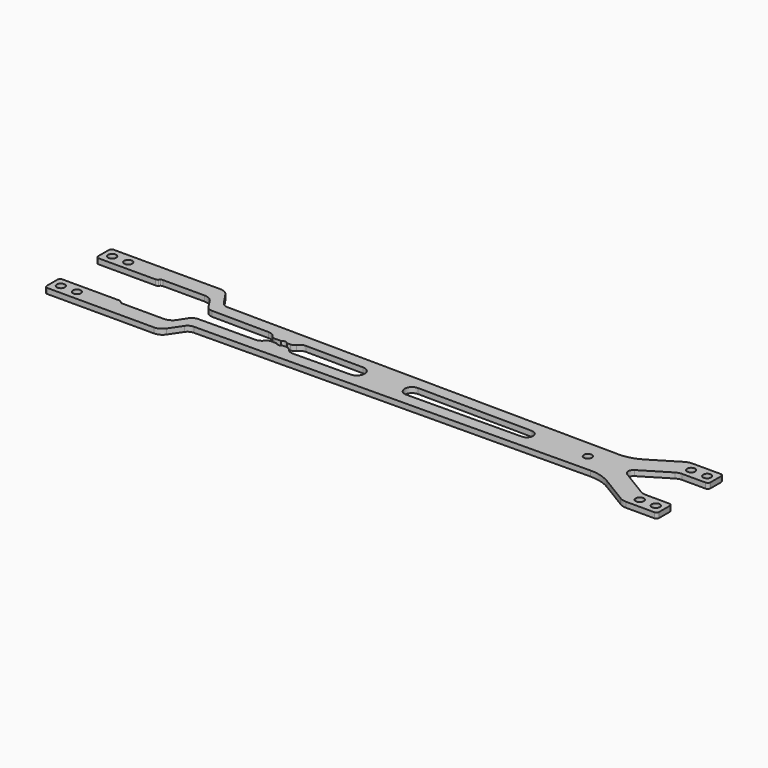
from build123d import *

# Parameters (mm, degrees)
F0_R     = 1.5
F1_DEPTH = 2


with BuildPart() as f1:
    # F0 (on Top) → F1 (new body)
    with BuildSketch(Plane.XY):
        with BuildLine():
            ThreePointArc((-19.697627, 1), (-18.579593, 1.5), (-17.461559, 1))
            Line((-17.461559, 1), (-16.105791, 1))
            ThreePointArc((-16.105791, 1), (-15.197296, 1.218249), (-14.487079, 1.825363))
            ThreePointArc((-14.487079, 1.825363), (-13.370764, 2.775222), (-11.943263, 3.107833))
            Line((-11.943263, 3.107833), (9.535083, 2.911781))
            ThreePointArc((9.535083, 2.911781), (12.420407, 0), (9.535083, -2.911781))
            Line((9.535083, -2.911781), (-11.943263, -3.107833))
            ThreePointArc((-11.943263, -3.107833), (-13.370764, -2.775222), (-14.487079, -1.825363))
            ThreePointArc((-14.487079, -1.825363), (-15.197296, -1.218249), (-16.105791, -1))
            Line((-16.105791, -1), (-17.461559, -1))
            ThreePointArc((-17.461559, -1), (-18.579593, -1.5), (-19.697627, -1))
            Line((-19.697627, -1), (-21.850744, -1))
            ThreePointArc((-21.850744, -1), (-22.759239, -1.218249), (-23.469456, -1.825363))
            ThreePointArc((-23.469456, -1.825363), (-24.560498, -2.762335), (-25.956535, -3.107833))
            Line((-25.956535, -3.107833), (-47.215056, -3.301877))
            ThreePointArc((-47.215056, -3.301877), (-48.633493, -3.67314), (-49.706572, -4.67229))
            Line((-49.706572, -4.67229), (-51.647468, -7.672617))
            ThreePointArc((-51.647468, -7.672617), (-53.094256, -9.013578), (-55.006, -9.5))
            Line((-55.006, -9.5), (-70.66538, -9.5))
            ThreePointArc((-70.66538, -9.5), (-71.048063, -9.42388), (-71.372486, -9.207107))
            Line((-71.372486, -9.207107), (-71.7867, -8.792893))
            ThreePointArc((-71.7867, -8.792893), (-72.111123, -8.57612), (-72.493807, -8.5))
            Line((-72.493807, -8.5), (-93.829593, -8.5))
            ThreePointArc((-93.829593, -8.5), (-94.5367, -8.792893), (-94.829593, -9.5))
            Line((-94.829593, -9.5), (-94.829593, -14.497718))
            ThreePointArc((-94.829593, -14.497718), (-94.5367, -15.204825), (-93.829593, -15.497718))
            Line((-93.829593, -15.497718), (-53.964611, -15.497718))
            ThreePointArc((-53.964611, -15.497718), (-52.081116, -15.02652), (-50.64137, -13.72394))
            Line((-50.64137, -13.72394), (-47.61983, -9.213471))
            ThreePointArc((-47.61983, -9.213471), (-46.552084, -8.243011), (-45.154781, -7.883263))
            Line((-45.154781, -7.883263), (102.117442, -6.538983))
            ThreePointArc((102.117442, -6.538983), (106.230219, -7.07487), (110.039026, -8.716546))
            Line((110.039026, -8.716546), (120.015907, -14.773938))
            ThreePointArc((120.015907, -14.773938), (121.26352, -15.315064), (122.610798, -15.5))
            Line((122.610798, -15.5), (133.170407, -15.5))
            ThreePointArc((133.170407, -15.5), (133.877514, -15.207107), (134.170407, -14.5))
            Line((134.170407, -14.5), (134.170407, -9.5))
            ThreePointArc((134.170407, -9.5), (133.877514, -8.792893), (133.170407, -8.5))
            Line((133.170407, -8.5), (124.289625, -8.5))
            ThreePointArc((124.289625, -8.5), (123.211804, -8.352051), (122.213713, -7.91915))
            Line((122.213713, -7.91915), (111.986177, -1.709575))
            ThreePointArc((111.986177, -1.709575), (111.024134, 0), (111.986177, 1.709575))
            Line((111.986177, 1.709575), (122.213713, 7.91915))
            ThreePointArc((122.213713, 7.91915), (123.211804, 8.352051), (124.289625, 8.5))
            Line((124.289625, 8.5), (133.170407, 8.5))
            ThreePointArc((133.170407, 8.5), (133.877514, 8.792893), (134.170407, 9.5))
            Line((134.170407, 9.5), (134.170407, 14.5))
            ThreePointArc((134.170407, 14.5), (133.877514, 15.207107), (133.170407, 15.5))
            Line((133.170407, 15.5), (122.610798, 15.5))
            ThreePointArc((122.610798, 15.5), (121.26352, 15.315064), (120.015907, 14.773938))
            Line((120.015907, 14.773938), (110.039026, 8.716546))
            ThreePointArc((110.039026, 8.716546), (106.230219, 7.07487), (102.117442, 6.538983))
            Line((102.117442, 6.538983), (-45.154781, 7.883263))
            ThreePointArc((-45.154781, 7.883263), (-46.552084, 8.243011), (-47.61983, 9.213471))
            Line((-47.61983, 9.213471), (-50.64137, 13.72394))
            ThreePointArc((-50.64137, 13.72394), (-52.081116, 15.02652), (-53.964611, 15.497718))
            Line((-53.964611, 15.497718), (-93.829593, 15.497718))
            ThreePointArc((-93.829593, 15.497718), (-94.5367, 15.204825), (-94.829593, 14.497718))
            Line((-94.829593, 14.497718), (-94.829593, 9.5))
            ThreePointArc((-94.829593, 9.5), (-94.5367, 8.792893), (-93.829593, 8.5))
            Line((-93.829593, 8.5), (-72.493807, 8.5))
            ThreePointArc((-72.493807, 8.5), (-72.111123, 8.57612), (-71.7867, 8.792893))
            Line((-71.7867, 8.792893), (-71.372486, 9.207107))
            ThreePointArc((-71.372486, 9.207107), (-71.048063, 9.42388), (-70.66538, 9.5))
            Line((-70.66538, 9.5), (-55.006, 9.5))
            ThreePointArc((-55.006, 9.5), (-53.094256, 9.013578), (-51.647468, 7.672617))
            Line((-51.647468, 7.672617), (-49.706572, 4.67229))
            ThreePointArc((-49.706572, 4.67229), (-48.633493, 3.67314), (-47.215056, 3.301877))
            Line((-47.215056, 3.301877), (-25.956535, 3.107833))
            ThreePointArc((-25.956535, 3.107833), (-24.560498, 2.762335), (-23.469456, 1.825363))
            ThreePointArc((-23.469456, 1.825363), (-22.759239, 1.218249), (-21.850744, 1))
            Line((-21.850744, 1), (-19.697627, 1))
        make_face()
        with Locations((-91.579593, -12)):
            Circle(F0_R, mode=Mode.SUBTRACT)
        with Locations((-85.579593, -12)):
            Circle(F0_R, mode=Mode.SUBTRACT)
        with Locations((124.920407, -12)):
            Circle(F0_R, mode=Mode.SUBTRACT)
        with Locations((130.920407, -12)):
            Circle(F0_R, mode=Mode.SUBTRACT)
        with Locations((-91.579593, 12)):
            Circle(F0_R, mode=Mode.SUBTRACT)
        with Locations((-85.579593, 12)):
            Circle(F0_R, mode=Mode.SUBTRACT)
        with BuildLine():
            ThreePointArc((73.110114, 2.331478), (75.420407, 0), (73.110114, -2.331478))
            Line((73.110114, -2.331478), (30.168819, -2.72344))
            ThreePointArc((30.168819, -2.72344), (27.420407, 0), (30.168819, 2.72344))
            Line((30.168819, 2.72344), (73.110114, 2.331478))
        make_face(mode=Mode.SUBTRACT)
        with Locations((95.920407, 0)):
            Circle(F0_R, mode=Mode.SUBTRACT)
        with Locations((124.920407, 12)):
            Circle(F0_R, mode=Mode.SUBTRACT)
        with Locations((130.920407, 12)):
            Circle(F0_R, mode=Mode.SUBTRACT)
    extrude(amount=F1_DEPTH)


solid = f1.part
